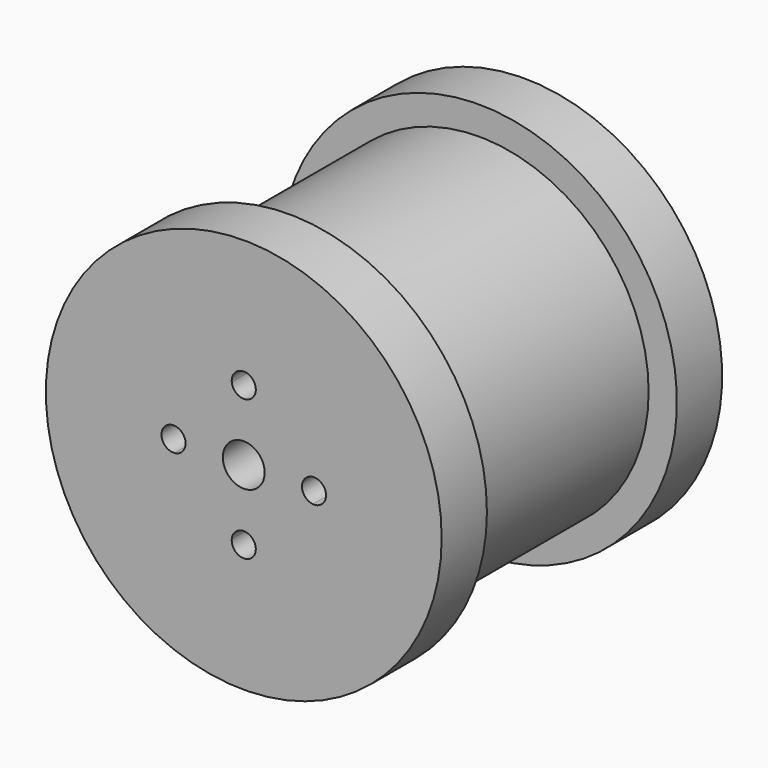
from build123d import *

# Parameters (mm, degrees)
F0_R          = 19.05
F1_DEPTH      = 13.335
F1_DEPTH_BACK = 13.335
F2_R          = 22.225
F3_DEPTH      = 6.35
F4_R          = 22.225
F5_DEPTH      = 6.35
F6_R          = 2.3495
F7_DEPTH      = 39.37


with BuildPart() as f1:
    # F0 (on Front) → F1 (new body, two sides)
    with BuildSketch(Plane.XZ) as f1_sk:
        Circle(F0_R)
    extrude(amount=F1_DEPTH)
    extrude(f1_sk.sketch, amount=-F1_DEPTH_BACK)

    # F2 (on face) → F3 (join)
    with BuildSketch(Plane.XZ.offset(13.335)):
        Circle(F2_R)
    extrude(amount=F3_DEPTH)

    # F4 (on face) → F5 (join)
    with BuildSketch(Plane(origin=(0, 13.335, 0), x_dir=(-1, 0, 0), z_dir=(0, 1, 0))):
        Circle(F4_R)
    extrude(amount=F5_DEPTH)

    # F6 (on face) → F7 (cut)
    with BuildSketch(Plane.XZ.offset(19.685)):
        with BuildLine():
            ThreePointArc((-6.53415, 0), (-6.8901410167, 0.9144734525), (-7.770720471, 1.3475682734))
            ThreePointArc((-7.770720471, 1.3475682734), (-7.8867, 0), (-7.770720471, -1.3475682734))
            ThreePointArc((-7.770720471, -1.3475682734), (-6.8901410167, -0.9144734525), (-6.53415, 0))
        make_face()
        with BuildLine():
            ThreePointArc((-7.770720471, -1.3475682734), (-7.8867, 0), (-7.770720471, 1.3475682734))
            ThreePointArc((-7.770720471, 1.3475682734), (-9.23925, 0), (-7.770720471, -1.3475682734))
        make_face()
        with BuildLine():
            ThreePointArc((7.770720471, -1.3475682734), (7.8576516221, -0.676275), (7.8867, 0))
            ThreePointArc((7.8867, 0), (7.8576516221, 0.676275), (7.770720471, 1.3475682734))
            ThreePointArc((7.770720471, 1.3475682734), (6.53415, 0), (7.770720471, -1.3475682734))
        make_face()
        with BuildLine():
            ThreePointArc((7.770720471, 1.3475682734), (7.8576516221, 0.676275), (7.8867, 0))
            ThreePointArc((7.8867, 0), (7.8576516221, -0.676275), (7.770720471, -1.3475682734))
            ThreePointArc((7.770720471, -1.3475682734), (8.8011734525, -0.9965589833), (9.23925, 0))
            ThreePointArc((9.23925, 0), (8.8011734525, 0.9965589833), (7.770720471, 1.3475682734))
        make_face()
        Circle(F6_R)
        with BuildLine():
            ThreePointArc((-1.3475682734, -7.770720471), (0, -7.8867), (1.3475682734, -7.770720471))
            ThreePointArc((1.3475682734, -7.770720471), (0, -6.53415), (-1.3475682734, -7.770720471))
        make_face()
        with BuildLine():
            ThreePointArc((1.35255, -7.8867), (1.3513039944, -7.8286567645), (1.3475682734, -7.770720471))
            ThreePointArc((1.3475682734, -7.770720471), (0, -7.8867), (-1.3475682734, -7.770720471))
            ThreePointArc((-1.3475682734, -7.770720471), (-0.0580432355, -9.2380039944), (1.35255, -7.8867))
        make_face()
        with BuildLine():
            ThreePointArc((-1.3475682734, 7.770720471), (0, 6.53415), (1.3475682734, 7.770720471))
            ThreePointArc((1.3475682734, 7.770720471), (0, 7.8867), (-1.3475682734, 7.770720471))
        make_face()
        with BuildLine():
            ThreePointArc((-1.3475682734, 7.770720471), (0, 7.8867), (1.3475682734, 7.770720471))
            ThreePointArc((1.3475682734, 7.770720471), (1.3513039944, 7.8286567645), (1.35255, 7.8867))
            ThreePointArc((1.35255, 7.8867), (-0.0580432355, 9.2380039944), (-1.3475682734, 7.770720471))
        make_face()
    extrude(amount=-F7_DEPTH, mode=Mode.SUBTRACT)


solid = f1.part
